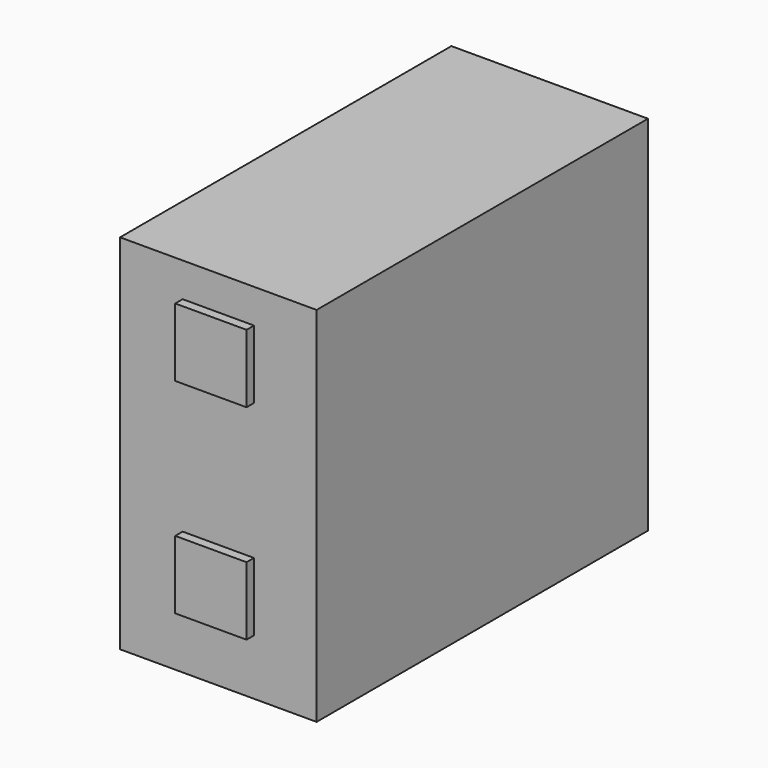
from build123d import *

# Parameters (mm, degrees)
F0_W     = 317
F0_H     = 585
F1_DEPTH = 334
F2_W     = 115
F2_H     = 110
F3_DEPTH = 15
F4_W     = 115
F4_H     = 110
F5_DEPTH = 15


with BuildPart() as f1:
    # F0 (on Front) → F1 (new body, symmetric)
    with BuildSketch(Plane.XZ):
        with Locations((158.5, 292.5)):
            Rectangle(F0_W, F0_H)
    extrude(amount=F1_DEPTH, both=True)

    # F2 (on face) → F3 (join)
    with BuildSketch(Plane.XZ.offset(334)):
        with Locations((158.5, 475)):
            Rectangle(F2_W, F2_H)
        with Locations((158.5, 145)):
            Rectangle(F2_W, F2_H)
    extrude(amount=F3_DEPTH)

    # F4 (on face) → F5 (join)
    with BuildSketch(Plane(origin=(0, 334, 0), x_dir=(-1, 0, 0), z_dir=(0, 1, 0))):
        with Locations((-158.5, 475)):
            Rectangle(F4_W, F4_H)
        with Locations((-158.5, 145)):
            Rectangle(F4_W, F4_H)
    extrude(amount=F5_DEPTH)


solid = f1.part
